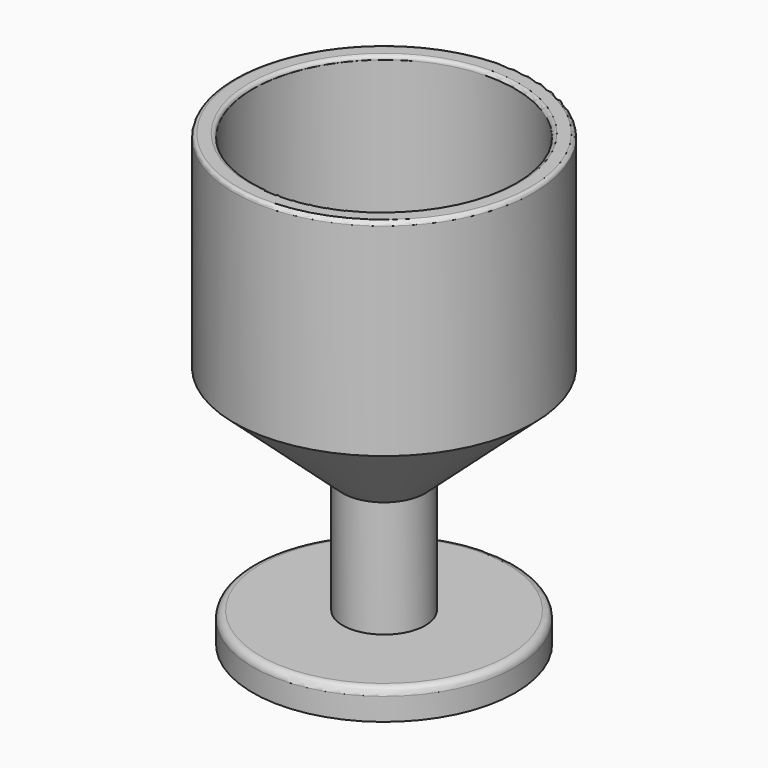
from build123d import *

# Parameters (mm, degrees)
CYLINDER003_R     = 35
CYLINDER003_DEPTH = 55
CYLINDER002_R     = 40
CYLINDER002_DEPTH = 55
CYLINDER_R        = 35
CYLINDER_DEPTH    = 8
CYLINDER001_R     = 11
CYLINDER001_DEPTH = 65
FILLET_R          = 2
FILLET001_R       = 1
FILLET002_R       = 1


with BuildPart() as cone:
    # Cone → Cone (revolve)
    with BuildSketch(Plane(origin=(0, 0, 35), x_dir=(1, 0, 0), z_dir=(0, -1, 0))):
        Polygon((0, 0), (6.5, 0), (40, 30), (0, 30), align=None)
    revolve(axis=Axis((0, 0, 35), (0, 0, 1)))


with BuildPart() as cylinder003:
    # Cylinder003 → Cylinder003 (new body)
    with BuildSketch(Plane.XY.offset(69)):
        Circle(CYLINDER003_R)
    extrude(amount=CYLINDER003_DEPTH)


with BuildPart() as cut:
    # Cylinder002 → Cylinder002 (new body)
    with BuildSketch(Plane.XY.offset(65)):
        Circle(CYLINDER002_R)
    extrude(amount=CYLINDER002_DEPTH)

    # Cut: cut Cylinder003
    add(cylinder003.part, mode=Mode.SUBTRACT)


with BuildPart() as cylinder:
    # Cylinder → Cylinder (new body)
    with BuildSketch(Plane.XY):
        Circle(CYLINDER_R)
    extrude(amount=CYLINDER_DEPTH)


with BuildPart() as fillet002:
    # Cylinder001 → Cylinder001 (new body)
    with BuildSketch(Plane.XY):
        Circle(CYLINDER001_R)
    extrude(amount=CYLINDER001_DEPTH)

    # Fusion: union Cylinder
    add(cylinder.part)

    # Fusion001: union Cut
    add(cut.part)

    # Fusion002: union Cone
    add(cone.part)

    # Fillet
    fillet_edges = [fillet002.edges().sort_by_distance(p)[0] for p in [
        (-35, 0, 8),
    ]]
    fillet(fillet_edges, radius=FILLET_R)

    # Fillet001
    fillet001_edges = [fillet002.edges().sort_by_distance(p)[0] for p in [
        (-40, 0, 120),
    ]]
    fillet(fillet001_edges, radius=FILLET001_R)

    # Fillet002
    fillet002_edges = [fillet002.edges().sort_by_distance(p)[0] for p in [
        (-35, 0, 120),
    ]]
    fillet(fillet002_edges, radius=FILLET002_R)


solid = fillet002.part
